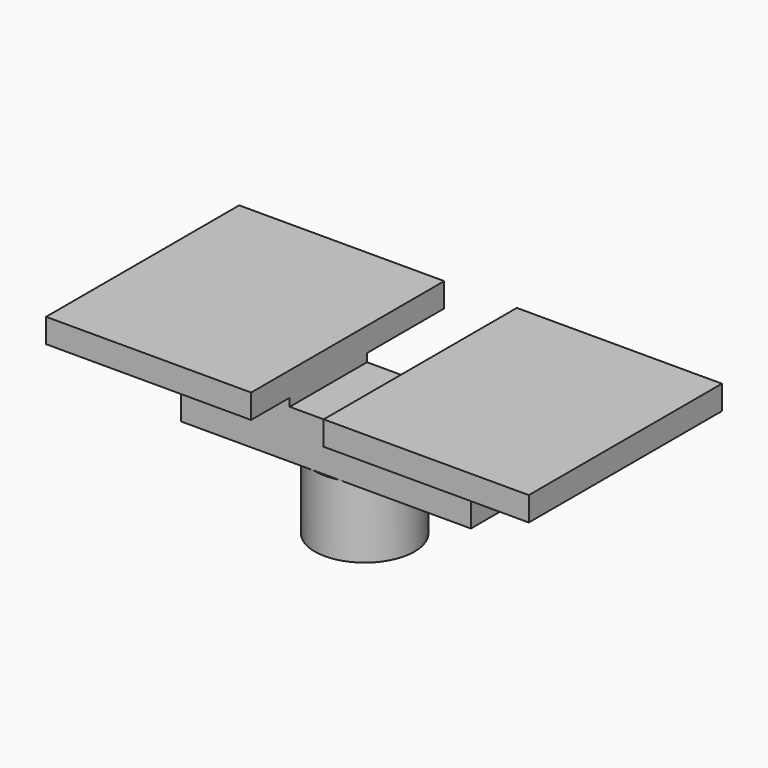
from build123d import *

# Parameters (mm, degrees)
SKETCH029_W             = 9
SKETCH029_H             = 3
PAD012_DEPTH            = 2.5
SKETCH030_R             = 1.55
PAD013_DEPTH            = 2.2
SKETCH035_W             = 9
SKETCH035_H             = 0.75
PAD014_DEPTH            = 3
SKETCH036_W             = 6
SKETCH036_H             = 0.75
PAD015_DEPTH            = 3
SKETCH037_W             = 6
SKETCH037_H             = 0.75
PAD016_DEPTH            = 3
SKETCH048_W             = 15
SKETCH048_H             = 0.75
PAD022_DEPTH            = 1.5
SKETCH049_W             = 2.255218
SKETCH049_H             = 8.498976
POCKET022_DEPTH         = 1
BODY003_PLACEMENT_ANGLE = 90


with BuildPart() as part:
    # Sketch029 → Pad012 (new body)
    with BuildSketch(Plane.XZ):
        with Locations((10.557257, 18.562511)):
            Rectangle(SKETCH029_W, SKETCH029_H)
    extrude(amount=PAD012_DEPTH)

    # Sketch030 (on Face6 of Pad012) → Pad013 (join)
    with BuildSketch(Plane.XZ.offset(2.5)):
        with Locations((10.557257, 18.562511)):
            Circle(SKETCH030_R)
    extrude(amount=PAD013_DEPTH)

    # Sketch035 → Pad014 (join)
    with BuildSketch(Plane(origin=(0, 0, 17.062511), x_dir=(1, 0, 0), z_dir=(0, 0, -1))):
        with Locations((10.557257, 0.375)):
            Rectangle(SKETCH035_W, SKETCH035_H)
    extrude(amount=PAD014_DEPTH)

    # Sketch036 (on Face15 of Pad014) → Pad015 (join)
    with BuildSketch(Plane(origin=(15.057257, 0, 0), x_dir=(0, 0, 1), z_dir=(1, 0, 0))):
        with Locations((17.062511, 0.375)):
            Rectangle(SKETCH036_W, SKETCH036_H)
    extrude(amount=PAD015_DEPTH)

    # Sketch037 (on Face3 of Pad015) → Pad016 (join)
    with BuildSketch(Plane(origin=(6.057257, 0, 0), x_dir=(0, 0, -1), z_dir=(-1, 0, 0))):
        with Locations((-17.062511, 0.375)):
            Rectangle(SKETCH037_W, SKETCH037_H)
    extrude(amount=PAD016_DEPTH)

    # Sketch048 (on Face5 of Pad016) → Pad022 (join)
    with BuildSketch(Plane(origin=(0, 0, 20.062511), x_dir=(-1, 0, 0), z_dir=(0, 0, 1))):
        with Locations((-10.557257, 0.375)):
            Rectangle(SKETCH048_W, SKETCH048_H)
    extrude(amount=PAD022_DEPTH)

    # Sketch049 (on Face23 of Pad022) → Pocket022 (cut)
    with BuildSketch(Plane(origin=(0, 0, 0), x_dir=(1, 0, 0), z_dir=(0, 1, 0))):
        with Locations((10.556244, -17.71185)):
            Rectangle(SKETCH049_W, SKETCH049_H)
    extrude(amount=-POCKET022_DEPTH, mode=Mode.SUBTRACT)


with BuildPart() as part_1:
    # Body003 placement: moved
    add(part.part.moved(Location((146.5, 10.6, 9.6))).rotate(Axis((146.5, 10.6, 9.6), (1, 0, 0)), BODY003_PLACEMENT_ANGLE))


solid = part_1.part
